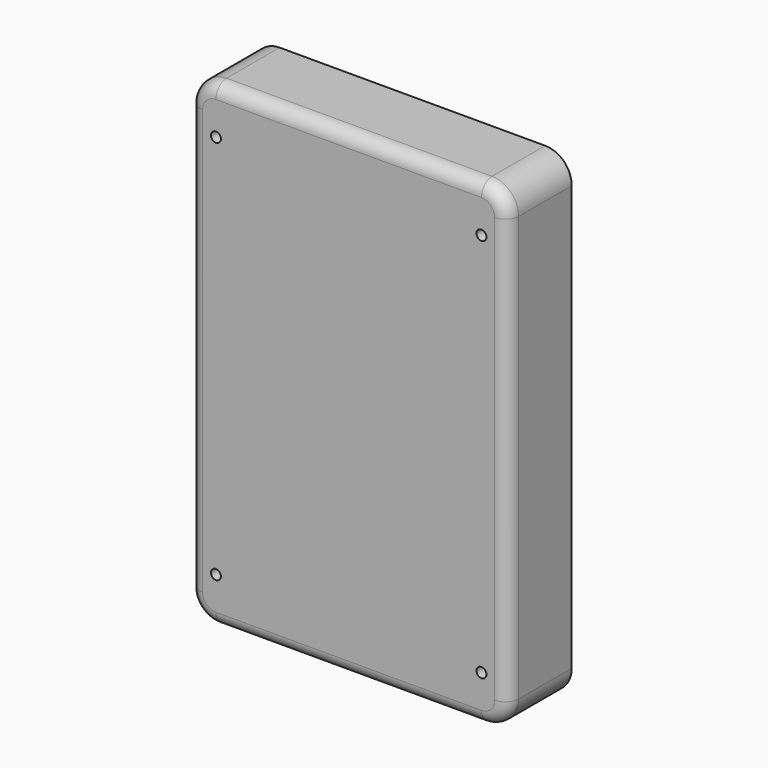
from build123d import *

# Parameters (mm, degrees)
F0_W     = 609.6
F0_H     = 914.4
F0_R     = 9.525
F1_DEPTH = 152.4
F2_R     = 50.8
F3_R     = 25.4


with BuildPart() as f1:
    # F0 (on Front) → F1 (new body)
    with BuildSketch(Plane.XZ):
        with Locations((-104.6087741801, -270.9774990136)):
            Rectangle(F0_W, F0_H)
        with Locations((-358.6087741801, -639.2774990136)):
            Circle(F0_R, mode=Mode.SUBTRACT)
        with Locations((149.3912258199, -639.2774990136)):
            Circle(F0_R, mode=Mode.SUBTRACT)
        with Locations((-358.6087741801, 97.3225009864)):
            Circle(F0_R, mode=Mode.SUBTRACT)
        with Locations((149.3912258199, 97.3225009864)):
            Circle(F0_R, mode=Mode.SUBTRACT)
    extrude(amount=F1_DEPTH)

    # F2
    f2_edges = [f1.edges().sort_by_distance(p)[0] for p in [
        (200.191226, -76.2, -728.177499),
        (200.191226, -76.2, 186.222501),
        (-409.408774, -76.2, -728.177499),
        (-409.408774, -76.2, 186.222501),
    ]]
    fillet(f2_edges, radius=F2_R)

    # F3
    f3_edges = [f1.edges().sort_by_distance(p)[0] for p in [
        (-409.408774, -152.4, -270.977499),
        (-394.529799, -152.4, -713.298523),
        (-104.608774, -152.4, -728.177499),
        (185.31225, -152.4, -713.298523),
        (200.191226, -152.4, -270.977499),
        (-104.608774, -152.4, 186.222501),
        (185.31225, -152.4, 171.343525),
        (-394.529799, -152.4, 171.343525),
    ]]
    fillet(f3_edges, radius=F3_R)


solid = f1.part
